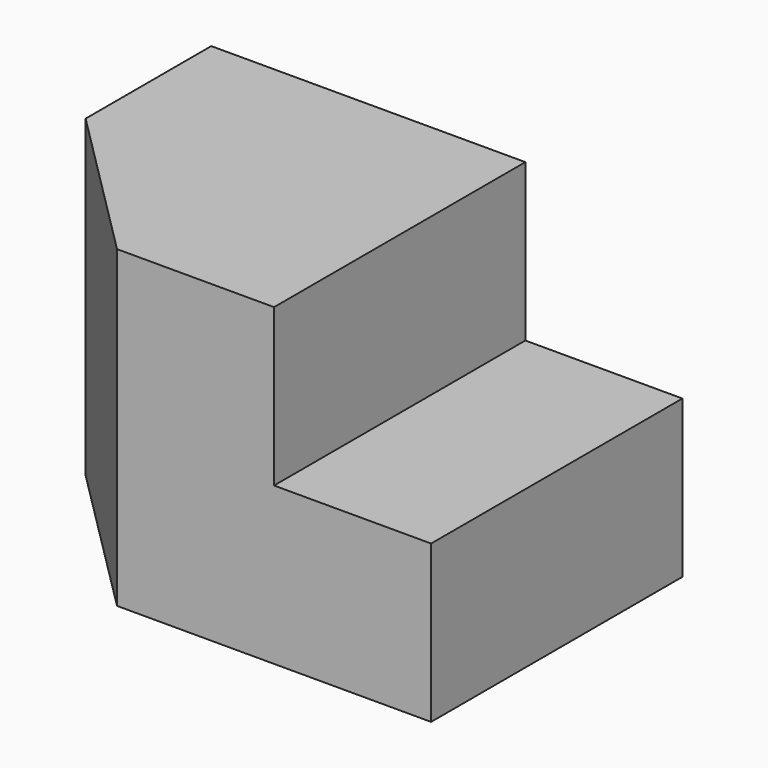
from build123d import *

# Parameters (mm, degrees)
F1_DEPTH = 20
F2_W     = 10
F2_H     = 10
F3_DEPTH = 25


with BuildPart() as f1:
    # F0 (on Top) → F1 (new body)
    with BuildSketch(Plane.XY):
        Polygon((0, 10), (0, 0), (10, -10), (30, -10), (30, 10), align=None)
    extrude(amount=F1_DEPTH)

    # F2 (on face) → F3 (cut)
    with BuildSketch(Plane.XZ.offset(10)):
        with Locations((25, 15)):
            Rectangle(F2_W, F2_H)
    extrude(amount=-F3_DEPTH, mode=Mode.SUBTRACT)


solid = f1.part
